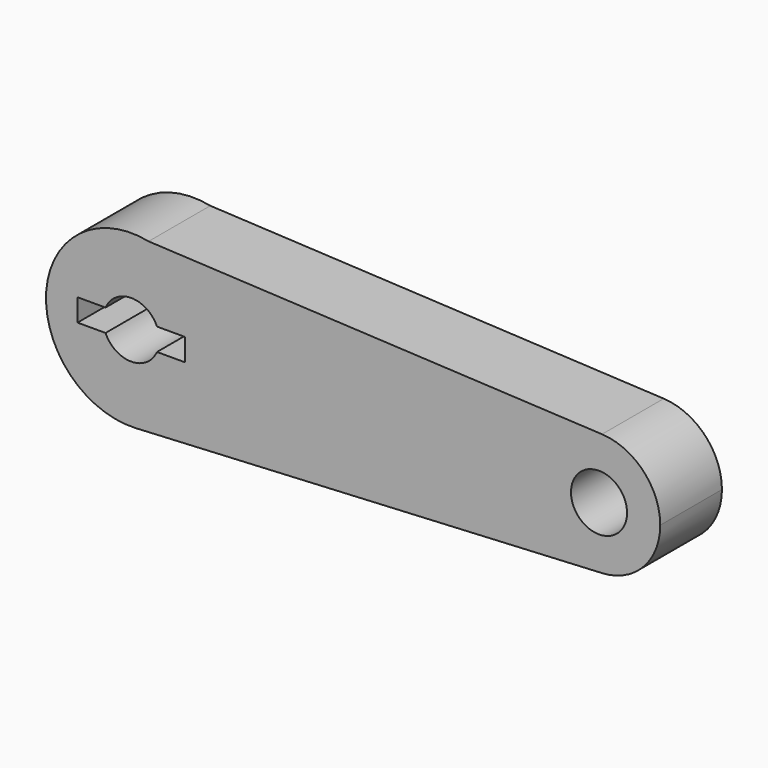
from build123d import *

# Parameters (mm, degrees)
F0_R     = 9.235468
F1_DEPTH = 25.4


with BuildPart() as f1:
    # F0 (on Front) → F1 (new body)
    with BuildSketch(Plane.XZ):
        with BuildLine():
            ThreePointArc((1.443592, -28.038119), (20.356194, -19.335083), (28.075257, 0))
            ThreePointArc((28.075257, 0), (21.77593, 17.720861), (5.704746, 27.489561))
            ThreePointArc((5.704746, 27.489561), (-27.992954, 2.148159), (1.443592, -28.038119))
        make_face()
        with BuildLine():
            ThreePointArc((-8.469817, 3.681855), (0, 9.235468), (8.469817, 3.681855))
            Line((8.469817, 3.681855), (17.686794, 3.681855))
            Line((17.686794, 3.681855), (17.686794, -3.681855))
            Line((17.686794, -3.681855), (8.469817, -3.681855))
            ThreePointArc((8.469817, -3.681855), (0, -9.235468), (-8.469817, -3.681855))
            Line((-8.469817, -3.681855), (-17.686794, -3.681855))
            Line((-17.686794, -3.681855), (-17.686794, 3.681855))
            Line((-17.686794, 3.681855), (-8.469817, 3.681855))
        make_face(mode=Mode.SUBTRACT)
        with BuildLine():
            ThreePointArc((5.704746, 27.489561), (21.77593, 17.720861), (28.075257, 0))
            ThreePointArc((28.075257, 0), (20.356194, -19.335083), (1.443592, -28.038119))
            Line((1.443592, -28.038119), (155.082565, -20.127745))
            ThreePointArc((155.082565, -20.127745), (133.891859, -0.022153), (155.038315, 20.129975))
            Line((155.038315, 20.129975), (5.704746, 27.489561))
        make_face()
        with BuildLine():
            ThreePointArc((174.200658, 0), (168.644103, 13.896144), (155.038315, 20.129975))
            ThreePointArc((155.038315, 20.129975), (133.891859, -0.022153), (155.082565, -20.127745))
            ThreePointArc((155.082565, -20.127745), (168.659369, -13.88009), (174.200658, 0))
        make_face()
        with Locations((154.046252, 0)):
            Circle(F0_R, mode=Mode.SUBTRACT)
    extrude(amount=F1_DEPTH)


solid = f1.part
